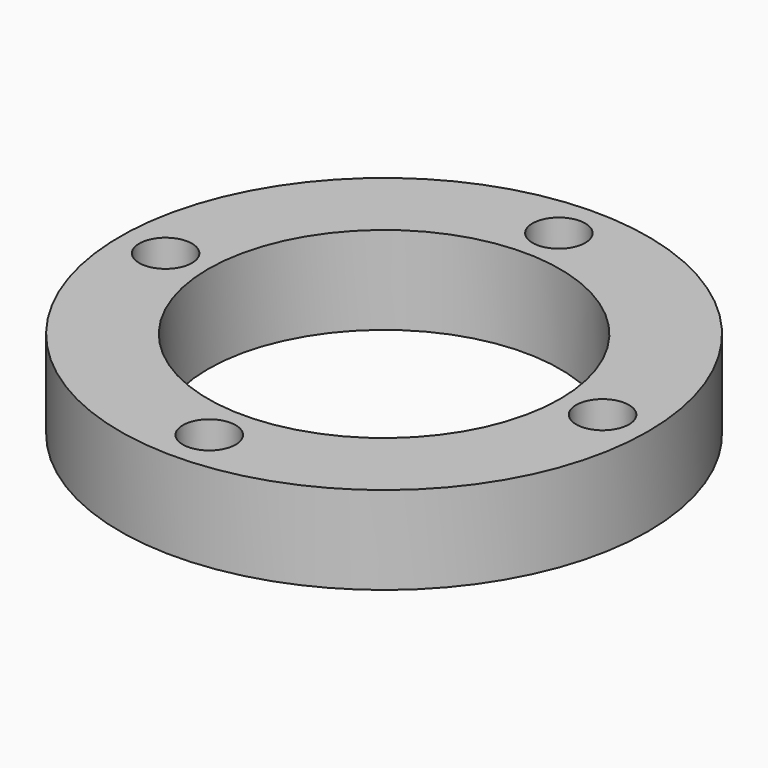
from build123d import *

# Parameters (mm, degrees)
F0_R     = 45
F1_DEPTH = 15
F2_R     = 30
F3_DEPTH = 15.001
F4_R     = 4.5
F5_DEPTH = 15.001


with BuildPart() as f1:
    # F0 (on Top) → F1 (new body)
    with BuildSketch(Plane.XY):
        Circle(F0_R)
    extrude(amount=F1_DEPTH)

    # F2 (on face) → F3 (cut, through all)
    with BuildSketch(Plane.XY.offset(15)):
        Circle(F2_R)
    extrude(amount=-F3_DEPTH, mode=Mode.SUBTRACT)

    # F4 (on face) → F5 (cut, through all)
    with BuildSketch(Plane.XY.offset(15)):
        with Locations((0, 37.25)):
            Circle(F4_R)
        with Locations((-37.25, 0)):
            Circle(F4_R)
        with Locations((37.25, 0)):
            Circle(F4_R)
        with Locations((0, -37.25)):
            Circle(F4_R)
    extrude(amount=-F5_DEPTH, mode=Mode.SUBTRACT)


solid = f1.part
